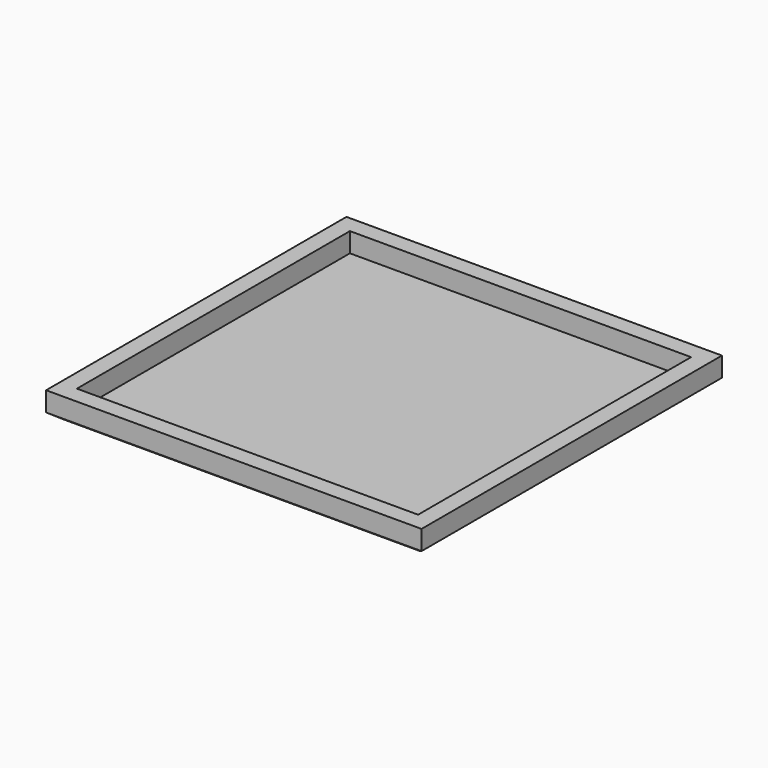
from build123d import *

# Parameters (mm, degrees)
F0_W        = 1535
F0_H        = 1535
F0_W_2      = 1395
F0_H_2      = 1395
F1_DEPTH    = 80
F1_FACE_W   = 1535
F1_FACE_H   = 1535
F1_FACE_W_2 = 1395
F1_FACE_H_2 = 1395
F2_DEPTH    = 115
F2_TAPER    = 54.3
F3_W        = 1467.787861824
F3_H        = 1458.398938179
F4_DEPTH    = 21.696


with BuildPart() as f1:
    # F0 (on Top) → F1 (new body)
    with BuildSketch(Plane.XY):
        Rectangle(F0_W, F0_H)
        Rectangle(F0_W_2, F0_H_2, mode=Mode.SUBTRACT)
    extrude(amount=F1_DEPTH)

    # F1_face (on face) → F2 (join)
    with BuildSketch(Plane(origin=(0, 0, 0), x_dir=(1, 0, 0), z_dir=(0, 0, -1))):
        Rectangle(F1_FACE_W, F1_FACE_H)
        Rectangle(F1_FACE_W_2, F1_FACE_H_2, mode=Mode.SUBTRACT)
    extrude(amount=F2_DEPTH, taper=F2_TAPER)

    # F3 (on Top) → F4 (join)
    with BuildSketch(Plane.XY):
        Rectangle(F3_W, F3_H)
    extrude(amount=-F4_DEPTH)


solid = f1.part
